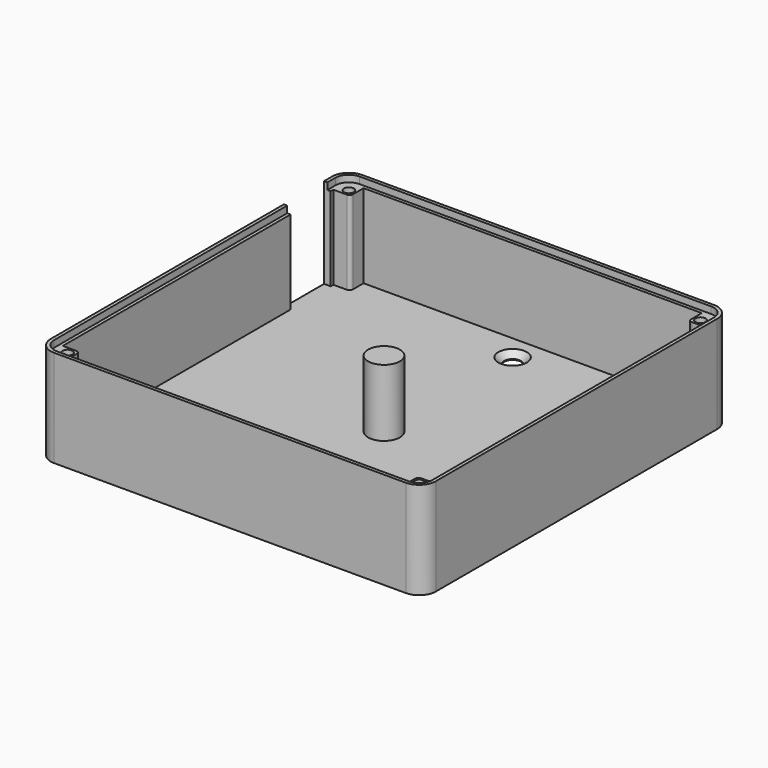
from build123d import *

# Parameters (mm, degrees)
F1_DEPTH        = 2
F2_R            = 4.75
F3_DEPTH        = 20
F2_R_2          = 2.5
F4_DEPTH        = 2
F2_R_3          = 1.5
F5_DEPTH        = 25
F7_DEPTH        = 2
F8_D            = 5
F8_CSINK_D      = 8.5
F8_CSINK_ANGLE  = 90
F9_D            = 5
F9_CSINK_D      = 8.5
F9_CSINK_ANGLE  = 90
F10_D           = 5
F10_CSINK_D     = 8.5
F10_CSINK_ANGLE = 90


with BuildPart() as f1:
    # F0 (on Top) → F1 (new body)
    with BuildSketch(Plane.XY):
        with BuildLine():
            ThreePointArc((-57.5, -52.5), (-56.035534, -56.035534), (-52.5, -57.5))
            Line((-52.5, -57.5), (52.5, -57.5))
            ThreePointArc((52.5, -57.5), (56.035534, -56.035534), (57.5, -52.5))
            Line((57.5, -52.5), (57.5, 52.5))
            ThreePointArc((57.5, 52.5), (56.035534, 56.035534), (52.5, 57.5))
            Line((52.5, 57.5), (-52.5, 57.5))
            ThreePointArc((-52.5, 57.5), (-56.035534, 56.035534), (-57.5, 52.5))
            Line((-57.5, 52.5), (-57.5, -52.5))
        make_face()
    extrude(amount=F1_DEPTH)

    # F2 (on face) → F3 (join)
    with BuildSketch(Plane.XY.offset(2)):
        Circle(F2_R)
    extrude(amount=F3_DEPTH)

    # F2 (on face) → F4 (cut)
    with BuildSketch(Plane.XY.offset(2)):
        with Locations((47, -48)):
            Circle(F2_R_2)
        with Locations((0, 48)):
            Circle(F2_R_2)
        with Locations((-47, -48)):
            Circle(F2_R_2)
    extrude(amount=-F4_DEPTH, mode=Mode.SUBTRACT)

    # F2 (on face) → F5 (join)
    with BuildSketch(Plane.XY.offset(2)):
        with BuildLine():
            Line((-55.5, 49.5), (-55.5, 50.5))
            Line((-55.5, 50.5), (-51.5, 50.5))
            ThreePointArc((-51.5, 50.5), (-50.792893, 50.792893), (-50.5, 51.5))
            Line((-50.5, 51.5), (-50.5, 55.5))
            Line((-50.5, 55.5), (50.5, 55.5))
            Line((50.5, 55.5), (50.5, 51.5))
            ThreePointArc((50.5, 51.5), (50.792893, 50.792893), (51.5, 50.5))
            Line((51.5, 50.5), (55.5, 50.5))
            Line((55.5, 50.5), (55.5, -50.5))
            Line((55.5, -50.5), (51.5, -50.5))
            ThreePointArc((51.5, -50.5), (50.792893, -50.792893), (50.5, -51.5))
            Line((50.5, -51.5), (50.5, -55.5))
            Line((50.5, -55.5), (-50.5, -55.5))
            Line((-50.5, -55.5), (-50.5, -51.5))
            ThreePointArc((-50.5, -51.5), (-50.792893, -50.792893), (-51.5, -50.5))
            Line((-51.5, -50.5), (-55.5, -50.5))
            Line((-55.5, -50.5), (-55.5, 34.5))
            Line((-55.5, 34.5), (-57.5, 34.5))
            Line((-57.5, 34.5), (-57.5, -52.5))
            ThreePointArc((-57.5, -52.5), (-56.035534, -56.035534), (-52.5, -57.5))
            Line((-52.5, -57.5), (52.5, -57.5))
            ThreePointArc((52.5, -57.5), (56.035534, -56.035534), (57.5, -52.5))
            Line((57.5, -52.5), (57.5, 52.5))
            ThreePointArc((57.5, 52.5), (56.035534, 56.035534), (52.5, 57.5))
            Line((52.5, 57.5), (-52.5, 57.5))
            ThreePointArc((-52.5, 57.5), (-56.035534, 56.035534), (-57.5, 52.5))
            Line((-57.5, 52.5), (-57.5, 49.5))
            Line((-57.5, 49.5), (-55.5, 49.5))
        make_face()
        with Locations((-52.5, -52.5)):
            Circle(F2_R_3, mode=Mode.SUBTRACT)
        with Locations((52.5, -52.5)):
            Circle(F2_R_3, mode=Mode.SUBTRACT)
        with Locations((-52.5, 52.5)):
            Circle(F2_R_3, mode=Mode.SUBTRACT)
        with Locations((52.5, 52.5)):
            Circle(F2_R_3, mode=Mode.SUBTRACT)
    extrude(amount=F5_DEPTH)

    # F6 (on face) → F7 (join)
    with BuildSketch(Plane.XY.offset(27)):
        with BuildLine():
            Line((52.5, 57.5), (-52.5, 57.5))
            ThreePointArc((-52.5, 57.5), (-56.035534, 56.035534), (-57.5, 52.5))
            Line((-57.5, 52.5), (-57.5, 49.5))
            Line((-57.5, 49.5), (-56.5, 49.5))
            Line((-56.5, 49.5), (-56.5, 52.5))
            ThreePointArc((-56.5, 52.5), (-55.328427, 55.328427), (-52.5, 56.5))
            Line((-52.5, 56.5), (52.5, 56.5))
            ThreePointArc((52.5, 56.5), (55.328427, 55.328427), (56.5, 52.5))
            Line((56.5, 52.5), (56.5, -52.5))
            ThreePointArc((56.5, -52.5), (55.328427, -55.328427), (52.5, -56.5))
            Line((52.5, -56.5), (-52.5, -56.5))
            ThreePointArc((-52.5, -56.5), (-55.328427, -55.328427), (-56.5, -52.5))
            Line((-56.5, -52.5), (-56.5, 34.5))
            Line((-56.5, 34.5), (-57.5, 34.5))
            Line((-57.5, 34.5), (-57.5, -52.5))
            ThreePointArc((-57.5, -52.5), (-56.035534, -56.035534), (-52.5, -57.5))
            Line((-52.5, -57.5), (52.5, -57.5))
            ThreePointArc((52.5, -57.5), (56.035534, -56.035534), (57.5, -52.5))
            Line((57.5, -52.5), (57.5, 52.5))
            ThreePointArc((57.5, 52.5), (56.035534, 56.035534), (52.5, 57.5))
        make_face()
    extrude(amount=F7_DEPTH)

    # F8 (through all)
    with Locations(Plane.XY.offset(2)):
        with Locations((0, 48)):
            CounterSinkHole(F8_D / 2, F8_CSINK_D / 2, counter_sink_angle=F8_CSINK_ANGLE)

    # F9 (through all)
    with Locations(Plane.XY.offset(2)):
        with Locations((47, -48)):
            CounterSinkHole(F9_D / 2, F9_CSINK_D / 2, counter_sink_angle=F9_CSINK_ANGLE)

    # F10 (through all)
    with Locations(Plane.XY.offset(2)):
        with Locations((-47, -48)):
            CounterSinkHole(F10_D / 2, F10_CSINK_D / 2, counter_sink_angle=F10_CSINK_ANGLE)


solid = f1.part
